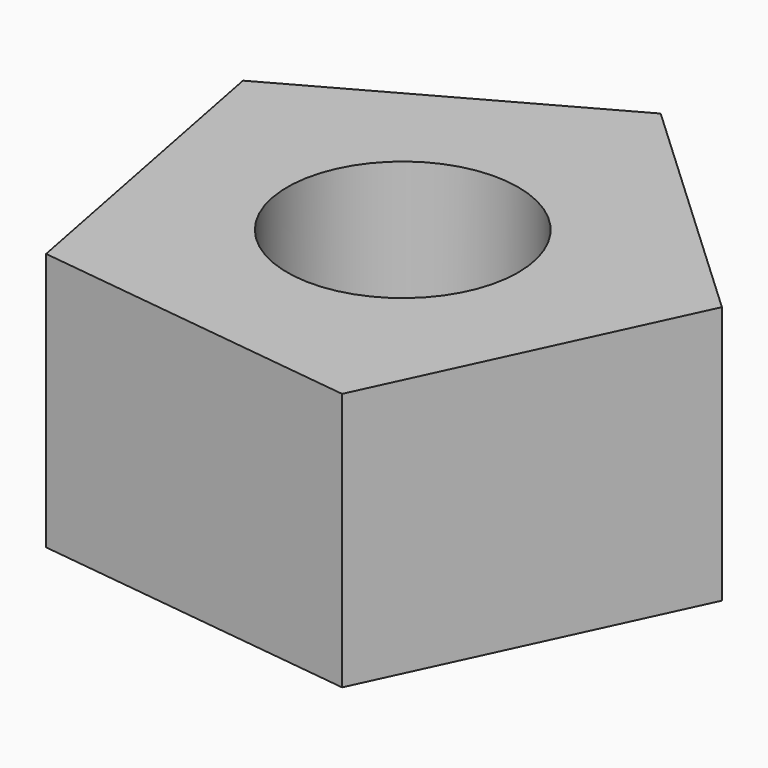
from build123d import *

# Parameters (mm, degrees)
F0_R     = 56.77758
F1_DEPTH = 127


with BuildPart() as f1:
    # F0 (on Top) → F1 (new body)
    with BuildSketch(Plane.XY):
        Polygon((16.924353, 137.300746), (-125.350856, 58.52428), (-94.395442, -101.130752), (67.011265, -121.026522), (135.810682, 26.332248), align=None)
        Circle(F0_R, mode=Mode.SUBTRACT)
    extrude(amount=F1_DEPTH)


solid = f1.part
